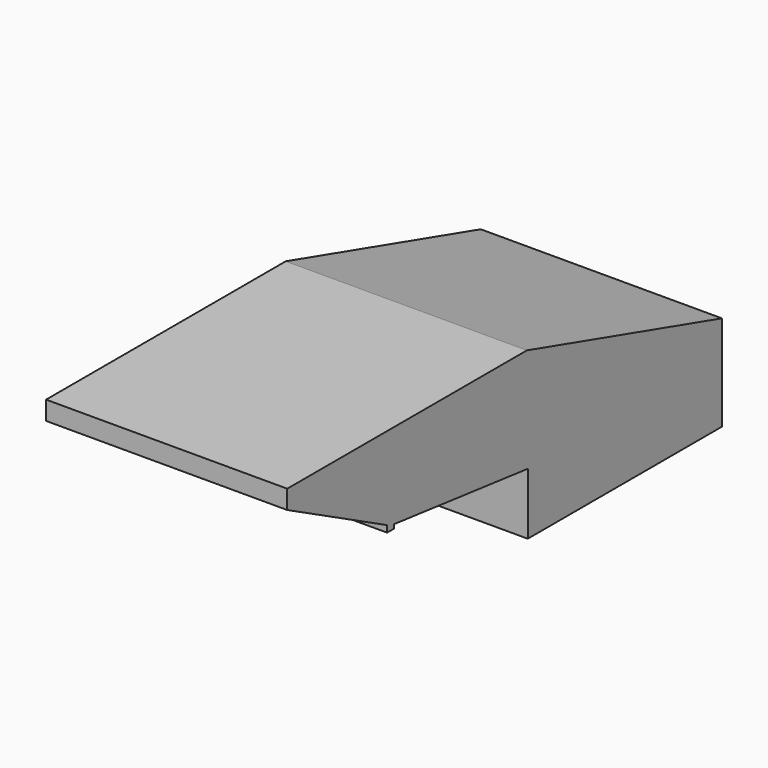
from build123d import *

# Parameters (mm, degrees)
F1_DEPTH = 101.346


with BuildPart() as f1:
    # F0 (on Right) → F1 (new body)
    with BuildSketch(Plane.YZ):
        Polygon((-56.0345028671, 7.8873237809), (-56.0345028671, 0), (5.6948743481, 0), (69.8494351029, 0), (69.8494351029, 7.8873237809), align=None)
        Polygon((5.6948743481, 0), (-56.0345028671, 0), (-3.5617963654, -26.9271820488), (-3.5617963654, -25.9666857012), (0, -25.9666857012), (0, -28.0452677073), (70.3373606324, -36.1098488152), (70.3373606324, -21.9123043052), (69.8494351029, 0), align=None)
        Polygon((-1.7808981827, -27.8410775342), (-3.5617963654, -26.9271820488), (-3.5617963654, -29.7154693672), (0, -29.7154693672), (0, -28.0452677073), align=None)
        Polygon((-3.5617963654, -25.9666857012), (-3.5617963654, -26.9271820488), (-1.7808981827, -27.8410775342), (0, -28.0452677073), (0, -25.9666857012), align=None)
        Polygon((172.3211090088, -21.9123043052), (69.8494351029, 0), (70.3373606324, -21.9123043052), align=None)
        Polygon((69.8494351029, 7.8873237809), (69.8494351029, 0), (172.3211090088, -21.9123043052), align=None)
        Polygon((172.3211090088, -21.9123043052), (70.3373606324, -21.9123043052), (70.3373606324, -36.1098488152), (70.3373606324, -62.0004139772), (172.3211090088, -62.0004139772), align=None)
    extrude(amount=F1_DEPTH)


solid = f1.part
